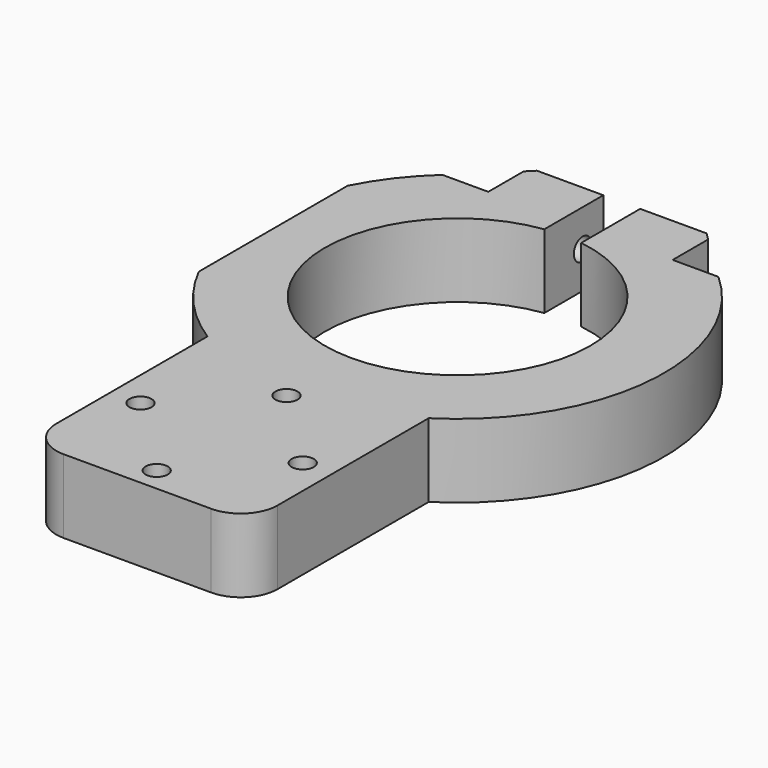
from build123d import *

# Parameters (mm, degrees)
F0_R     = 1.5
F1_DEPTH = 5
F2_R     = 1.5
F3_DEPTH = 40.501
F4_SIZE  = 1
F5_R     = 5
F7_W     = 44.468724
F7_H     = 10
F8_DEPTH = 3


with BuildPart() as f1:
    # F0 (on Top) → F1 (new body, symmetric)
    with BuildSketch(Plane.XY):
        with BuildLine():
            ThreePointArc((2.5, 17.825543), (17.956333, -1.25304), (0, -18))
            ThreePointArc((0, -18), (-17.956333, -1.25304), (-2.5, 17.825543))
            Line((-2.5, 17.825543), (-2.5, 27.825543))
            Line((-2.5, 27.825543), (-12.5, 27.825543))
            Line((-12.5, 27.825543), (-12.5, 20.825543))
            Line((-12.5, 20.825543), (-18.716216, 20.825543))
            ThreePointArc((-18.716216, 20.825543), (-27.902736, -2.331809), (-15, -23.643181))
            Line((-15, -23.643181), (-15, -54.25))
            Line((-15, -54.25), (0, -54.25))
            Line((0, -54.25), (15, -54.25))
            Line((15, -54.25), (15, -23.643181))
            ThreePointArc((15, -23.643181), (27.902736, -2.331809), (18.716216, 20.825543))
            Line((18.716216, 20.825543), (12.5, 20.825543))
            Line((12.5, 20.825543), (12.5, 27.825543))
            Line((12.5, 27.825543), (2.5, 27.825543))
            Line((2.5, 27.825543), (2.5, 17.825543))
        make_face()
        with Locations((-11, -40)):
            Circle(F0_R, mode=Mode.SUBTRACT)
        with Locations((0, -51)):
            Circle(F0_R, mode=Mode.SUBTRACT)
        with Locations((11, -40)):
            Circle(F0_R, mode=Mode.SUBTRACT)
        with Locations((0, -29)):
            Circle(F0_R, mode=Mode.SUBTRACT)
    extrude(amount=F1_DEPTH, both=True)

    # F2 (on face) → F3 (cut, through all)
    with BuildSketch(Plane(origin=(-12.5, 0, 0), x_dir=(0, -1, 0), z_dir=(-1, 0, 0))):
        with Locations((-24.325543, 0)):
            Circle(F2_R)
    extrude(amount=-F3_DEPTH, mode=Mode.SUBTRACT)

    # F4
    f4_edges = [f1.edges().sort_by_distance(p)[0] for p in [
        (12.5, 27.825543, 0),
        (-12.5, 27.825543, 0),
    ]]
    chamfer(f4_edges, length=F4_SIZE)

    # F5
    f5_edges = [f1.edges().sort_by_distance(p)[0] for p in [
        (-15, -54.25, 0),
        (15, -54.25, 0),
    ]]
    fillet(f5_edges, radius=F5_R)

    # F7 (on plane+point) → F8 (cut)
    with BuildSketch(Plane.YZ.offset(-28)):
        with Locations((-1.408819, 0)):
            Rectangle(F7_W, F7_H)
    extrude(amount=F8_DEPTH, mode=Mode.SUBTRACT)


solid = f1.part
